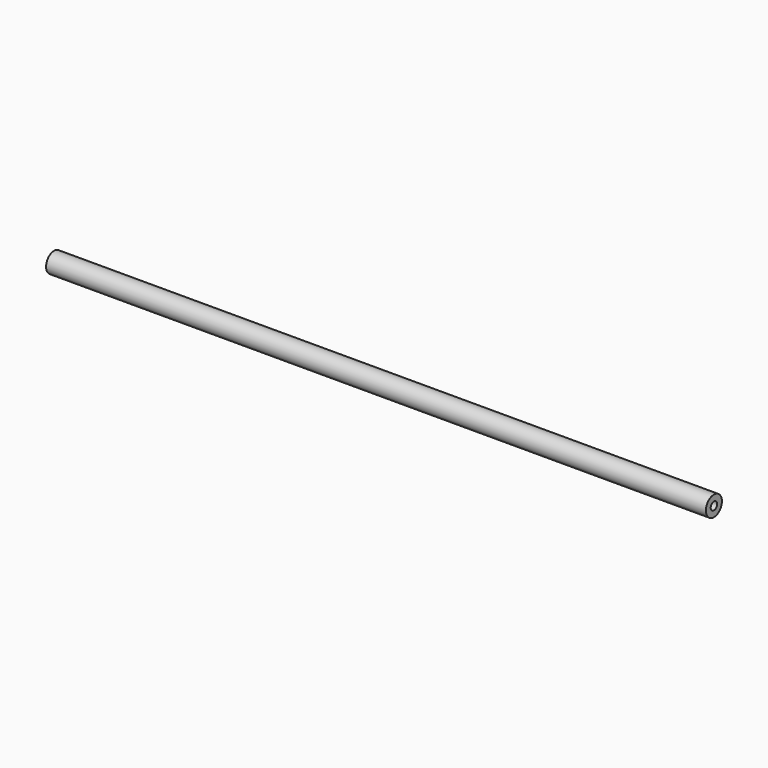
from build123d import *

# Parameters (mm, degrees)
F0_R     = 6.35
F1_DEPTH = 419.1
F3_D     = 5.1054


with BuildPart() as f1:
    # F0 (on Right) → F1 (new body)
    with BuildSketch(Plane.YZ):
        Circle(F0_R)
    extrude(amount=F1_DEPTH)

    # F3 (through all)
    with Locations(Plane(origin=(0, 0, 0), x_dir=(0, -1, 0), z_dir=(-1, 0, 0))):
        with Locations((0, 0)):
            Hole(F3_D / 2)


solid = f1.part
